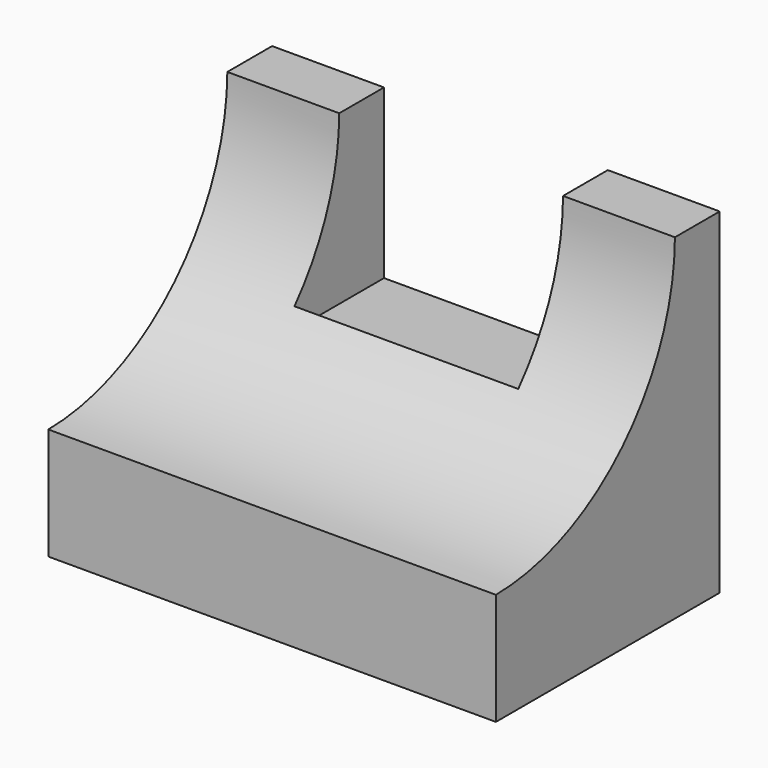
from build123d import *

# Parameters (mm, degrees)
F0_W     = 101.6
F0_H     = 76.2
F1_DEPTH = 63.5
F3_DEPTH = 101.6
F4_W     = 50.8
F4_H     = 25.4
F5_DEPTH = 38.1


with BuildPart() as f1:
    # F0 (on Front) → F1 (new body)
    with BuildSketch(Plane.XZ):
        with Locations((-2.540003, -7.110645)):
            Rectangle(F0_W, F0_H)
    extrude(amount=F1_DEPTH)

    # F2 (on face) → F3 (cut)
    with BuildSketch(Plane(origin=(-53.340003, 0, 0), x_dir=(0, -1, 0), z_dir=(-1, 0, 0))):
        with BuildLine():
            Line((63.5, 30.989355), (12.7, 30.989355))
            ThreePointArc((12.7, 30.989355), (27.666821, -4.843824), (63.5, -19.810645))
            Line((63.5, -19.810645), (63.5, 30.989355))
        make_face()
    extrude(amount=-F3_DEPTH, mode=Mode.SUBTRACT)

    # F4 (on face) → F5 (cut)
    with BuildSketch(Plane.XY.offset(30.989355)):
        with Locations((-2.540003, -12.7)):
            Rectangle(F4_W, F4_H)
        with Locations((-2.540003, -12.7)):
            Rectangle(F4_W, F4_H)
    extrude(amount=-F5_DEPTH, mode=Mode.SUBTRACT)


solid = f1.part
